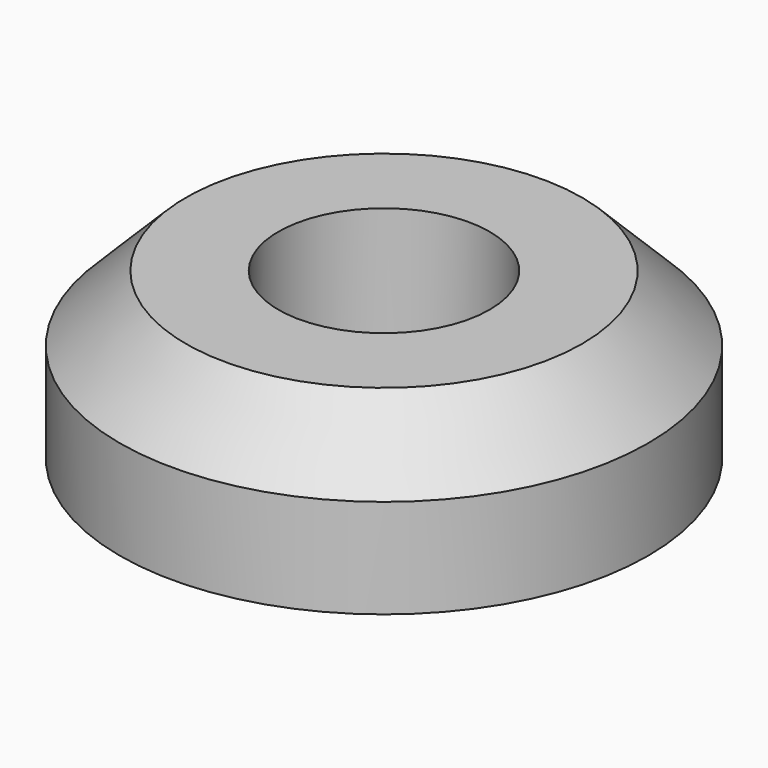
from build123d import *

# Parameters (mm, degrees)
SKETCH_R     = 4
SKETCH_R_2   = 1.6
PAD_DEPTH    = 2.5
CHAMFER_SIZE = 1


with BuildPart() as part:
    # Sketch → Pad (new body)
    with BuildSketch(Plane.XY):
        Circle(SKETCH_R)
        Circle(SKETCH_R_2, mode=Mode.SUBTRACT)
    extrude(amount=PAD_DEPTH)

    # Chamfer
    chamfer_edges = [part.edges().sort_by_distance(p)[0] for p in [
        (-4, 0, 2.5),
    ]]
    chamfer(chamfer_edges, length=CHAMFER_SIZE)


solid = part.part
